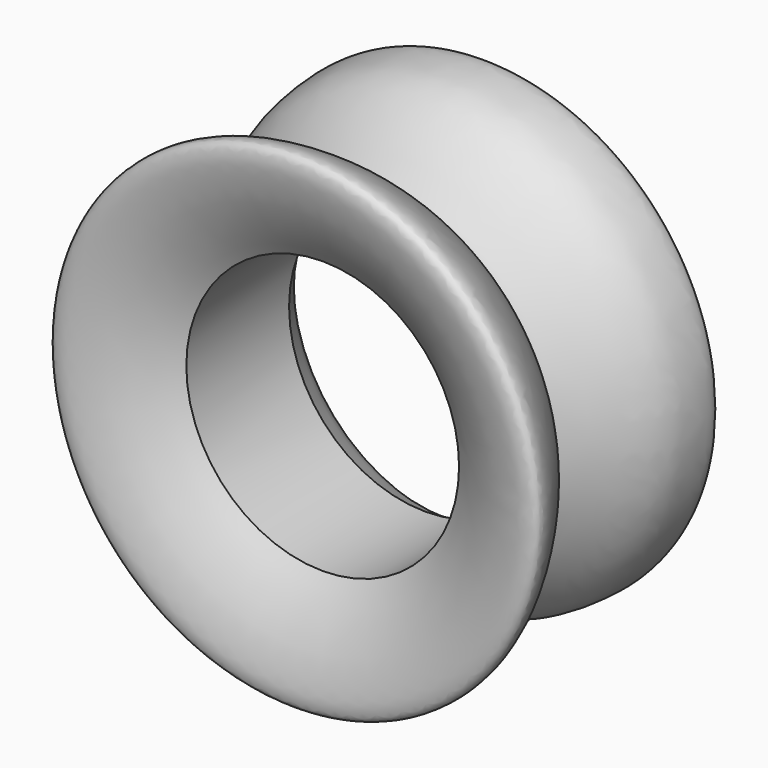
from build123d import *


with BuildPart() as f1:
    # F0 (on Top) → F1 (revolve)
    with BuildSketch(Plane.XY):
        with BuildLine():
            add(Edge.make_bspline(
                [(0, 30.3327534348), (3.6382466047, 36.8740151806), (11.3538920056, 50.7460974193), (36.0043650486, 66.3391574121), (49.6744880079, 69.7701344869), (48.5990699134, 50.4828988644), (45.0594133754, 30.3730429698), (13.9283806725, 5.8051754644), (11.8906460702, 5.0339722075)],
                knots=[0, 0, 0, 0, 0.1685794512, 0.3575071754, 0.4648240347, 0.5954908307, 0.7679326743, 0.9807703595, 0.9807703595, 0.9807703595, 0.9807703595], degree=3))
            Line((0, 30.3327534348), (0, -33.6808115244))
            add(Edge.make_bspline(
                [(11.8906460702, 5.0339722075), (17.8454233749, 0.5073096034), (30.308025944, -8.9664278873), (45.4772818078, -27.6823449131), (61.1968807908, -57.8534153518), (22.3887164888, -48.7142033704), (7.5768216922, -38.7684336533), (0, -33.6808115244)],
                knots=[0, 0, 0, 0, 0.1880386788, 0.3935413872, 0.5784932281, 0.7843839903, 1, 1, 1, 1], degree=3))
        make_face()
    revolve(axis=Axis((-67.9735839367, -9.6108410507, 0), (0, -1, 0)))


solid = f1.part
